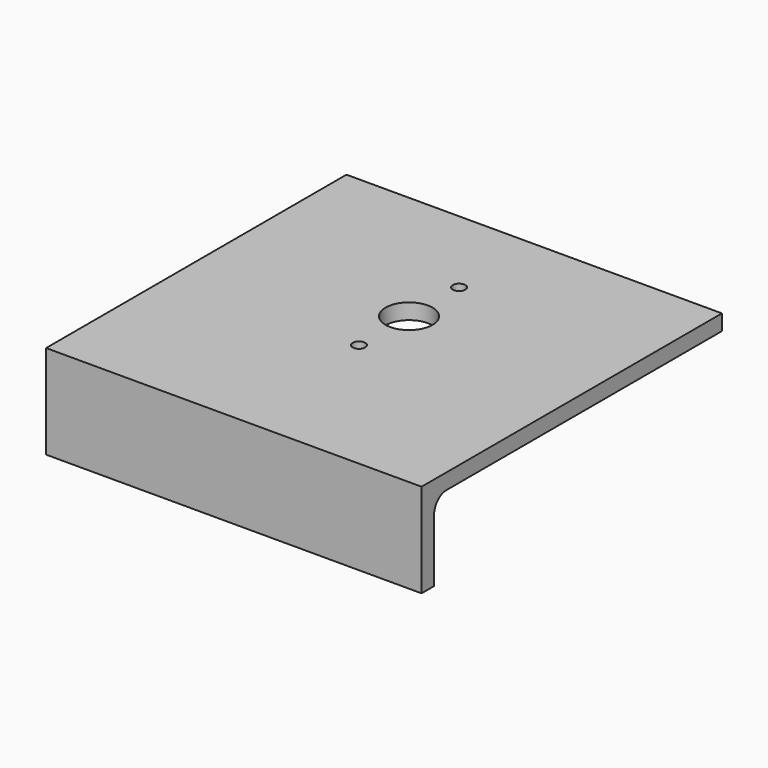
from build123d import *

# Parameters (mm, degrees)
F1_DEPTH = 76.2
F2_R     = 9.525
F2_R_2   = 2.5527
F3_DEPTH = 38.101


with BuildPart() as f1:
    # F0 (on Right) → F1 (new body, symmetric)
    with BuildSketch(Plane.YZ):
        with BuildLine():
            Line((152.4, 0), (0, 0))
            Line((0, 0), (0, -38.1))
            Line((0, -38.1), (6.35, -38.1))
            Line((6.35, -38.1), (6.35, -12.7))
            ThreePointArc((6.35, -12.7), (8.209872, -8.209872), (12.7, -6.35))
            Line((12.7, -6.35), (152.4, -6.35))
            Line((152.4, -6.35), (152.4, 0))
        make_face()
    extrude(amount=F1_DEPTH, both=True)

    # F2 (on Top) → F3 (cut, through all)
    with BuildSketch(Plane.XY):
        with Locations((0, 88.9)):
            Circle(F2_R)
        with Locations((0, 114.3)):
            Circle(F2_R_2)
        with Locations((0, 63.5)):
            Circle(F2_R_2)
    extrude(amount=-F3_DEPTH, mode=Mode.SUBTRACT)


solid = f1.part
